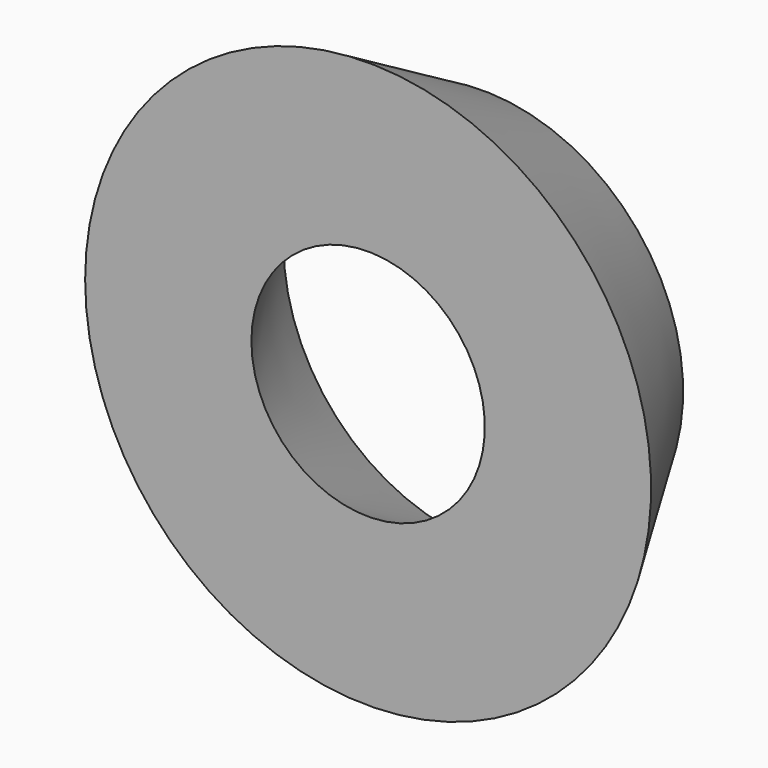
from build123d import *


with BuildPart() as f2:
    # F0 (on Top) → F2 (revolve)
    with BuildSketch(Plane.XY):
        Polygon((0, 45.954542), (-50.8, -42.033639), (50.8, -42.033639), align=None)
    revolve(axis=Axis((122.126602, 3.528334, 0), (0, -1, 0)))


solid = f2.part
